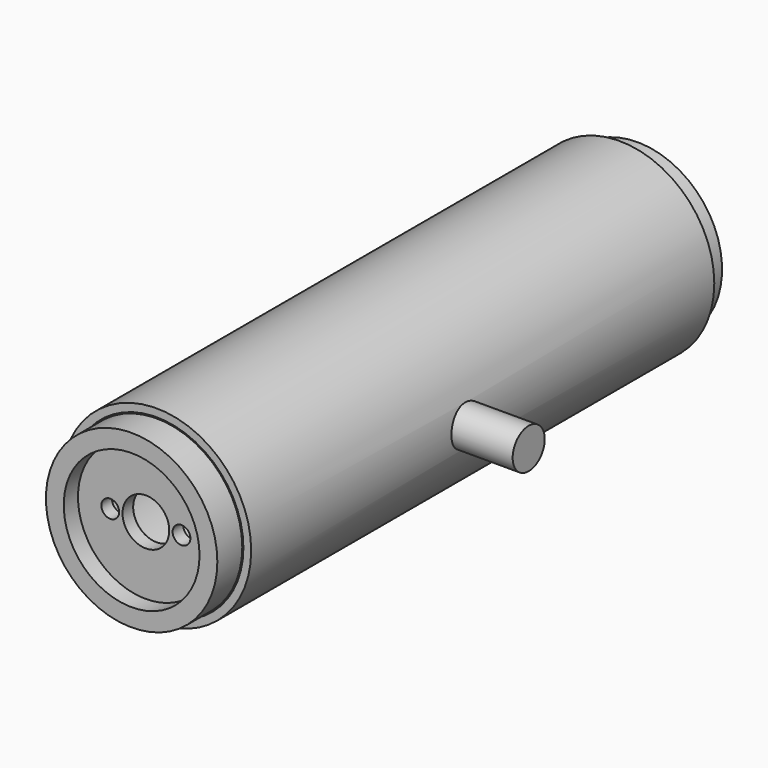
from build123d import *

# Parameters (mm, degrees)
F0_R      = 21.25
F0_R_2    = 19.5
F1_DEPTH  = 130
F2_R      = 19
F3_DEPTH  = 2
F6_DEPTH  = 15
F7_COUNT  = 10
F8_R      = 4.5
F8_R_2    = 1
F9_DEPTH  = 25
F11_R     = 13.5
F11_R_2   = 1
F11_R_3   = 5
F12_DEPTH = 2
F13_R     = 19
F14_DEPTH = 5
F16_R     = 19.25
F16_R_2   = 2
F16_R_3   = 5.25
F17_DEPTH = 3
F18_R     = 19.25
F18_R_2   = 15.25
F19_DEPTH = 4
F20_R     = 5
F21_DEPTH = 25
F23_R     = 4.5
F23_R_2   = 3.5
F22_R     = 4.5
F24_DEPTH = 35


with BuildPart() as f1:
    # F0 (on Front) → F1 (new body)
    with BuildSketch(Plane.XZ):
        Circle(F0_R)
        Circle(F0_R_2, mode=Mode.SUBTRACT)
    extrude(amount=F1_DEPTH)

    # F20 (on Right) → F21 (cut)
    with BuildSketch(Plane.YZ):
        with Locations((-69.295404115, 0)):
            Circle(F20_R)
    extrude(amount=-F21_DEPTH, mode=Mode.SUBTRACT)

    # F23 (on Right) + F22 (on Right) → F24 (join)
    with BuildSketch(Plane.YZ):
        with Locations((-69.295404115, 0)):
            Circle(F23_R)
        with Locations((-69.295404115, 0)):
            Circle(F23_R_2, mode=Mode.SUBTRACT)
    with BuildSketch(Plane.YZ):
        with Locations((-69.295404115, 0)):
            Circle(F22_R)
    extrude(amount=F24_DEPTH)


with BuildPart() as f3:
    # F2 (on Front) → F3 (new body)
    with BuildSketch(Plane.XZ):
        Circle(F2_R)
    extrude(amount=F3_DEPTH)

    # F5 (on Front) → F6 (join)
    with BuildSketch(Plane.XZ):
        with BuildLine():
            ThreePointArc((-4, 0), (-4.0025921682, 0.3264822232), (-3.9471254766, 0.648228719))
            ThreePointArc((-3.9471254766, 0.648228719), (-11.584566807, 1.1744826423), (-18.4385144491, 4.5848865755))
            ThreePointArc((-18.4385144491, 4.5848865755), (-18.5755861543, 3.8002382146), (-18.7576805779, 3.0248007101))
            ThreePointArc((-18.7576805779, 3.0248007101), (-11.6055227609, 0.4064407121), (-4, 0))
        make_face()
        with BuildLine():
            ThreePointArc((-4, 0), (-3.9867594551, 0.3251907853), (-3.9471254766, 0.648228719))
            ThreePointArc((-3.9471254766, 0.648228719), (-4.0025921682, 0.3264822232), (-4, 0))
        make_face()
    extrude(amount=F6_DEPTH)


with BuildPart() as f7_1:
    # F7: instance of F3
    add(f3.part.rotate(Axis((0, 8.3387196064, 0), (0, 1, 0)), 1 * 360 / F7_COUNT))


with BuildPart() as f7_2:
    # F7: instance of F3
    add(f3.part.rotate(Axis((0, 8.3387196064, 0), (0, 1, 0)), 2 * 360 / F7_COUNT))


with BuildPart() as f7_3:
    # F7: instance of F3
    add(f3.part.rotate(Axis((0, 8.3387196064, 0), (0, 1, 0)), 3 * 360 / F7_COUNT))


with BuildPart() as f7_4:
    # F7: instance of F3
    add(f3.part.rotate(Axis((0, 8.3387196064, 0), (0, 1, 0)), 4 * 360 / F7_COUNT))


with BuildPart() as f7_5:
    # F7: instance of F3
    add(f3.part.rotate(Axis((0, 8.3387196064, 0), (0, 1, 0)), 5 * 360 / F7_COUNT))


with BuildPart() as f7_6:
    # F7: instance of F3
    add(f3.part.rotate(Axis((0, 8.3387196064, 0), (0, 1, 0)), 6 * 360 / F7_COUNT))


with BuildPart() as f7_7:
    # F7: instance of F3
    add(f3.part.rotate(Axis((0, 8.3387196064, 0), (0, 1, 0)), 7 * 360 / F7_COUNT))


with BuildPart() as f7_8:
    # F7: instance of F3
    add(f3.part.rotate(Axis((0, 8.3387196064, 0), (0, 1, 0)), 8 * 360 / F7_COUNT))


with BuildPart() as f7_9:
    # F7: instance of F3
    add(f3.part.rotate(Axis((0, 8.3387196064, 0), (0, 1, 0)), 9 * 360 / F7_COUNT))


with BuildPart() as f3_1:
    add(f3.part)

    add(f7_1.part)  # F9 merges F7_1

    add(f7_2.part)  # F9 merges F7_2

    add(f7_3.part)  # F9 merges F7_3

    add(f7_4.part)  # F9 merges F7_4

    add(f7_5.part)  # F9 merges F7_5

    add(f7_6.part)  # F9 merges F7_6

    add(f7_7.part)  # F9 merges F7_7

    add(f7_8.part)  # F9 merges F7_8

    add(f7_9.part)  # F9 merges F7_9
    # F8 (on face) → F9 (join)
    with BuildSketch(Plane.XZ.offset(2)):
        Circle(F8_R)
        Circle(F8_R_2, mode=Mode.SUBTRACT)
    extrude(amount=F9_DEPTH)


with BuildPart() as f12:
    # F11 (on offset) → F12 (new body)
    with BuildSketch(Plane.XZ.offset(32)):
        Circle(F11_R)
        with Locations((-8, 0)):
            Circle(F11_R_2, mode=Mode.SUBTRACT)
        Circle(F11_R_3, mode=Mode.SUBTRACT)
        with Locations((8, 0)):
            Circle(F11_R_2, mode=Mode.SUBTRACT)
    extrude(amount=F12_DEPTH)


with BuildPart() as f14:
    # F13 (on face) → F14 (new body)
    with BuildSketch(Plane(origin=(0, 0, 0), x_dir=(-1, 0, 0), z_dir=(0, 1, 0))):
        Circle(F13_R)
    extrude(amount=F14_DEPTH)


with BuildPart() as f17:
    # F16 (on face) → F17 (new body)
    with BuildSketch(Plane.XZ.offset(130)):
        Circle(F16_R)
        with Locations((-8, 0)):
            Circle(F16_R_2, mode=Mode.SUBTRACT)
        Circle(F16_R_3, mode=Mode.SUBTRACT)
        with Locations((8, 0)):
            Circle(F16_R_2, mode=Mode.SUBTRACT)
    extrude(amount=F17_DEPTH)

    # F18 (on face) → F19 (join)
    with BuildSketch(Plane.XZ.offset(133)):
        Circle(F18_R)
        Circle(F18_R_2, mode=Mode.SUBTRACT)
    extrude(amount=F19_DEPTH)


solid = Compound([f1.part, f3_1.part, f14.part, f17.part])
